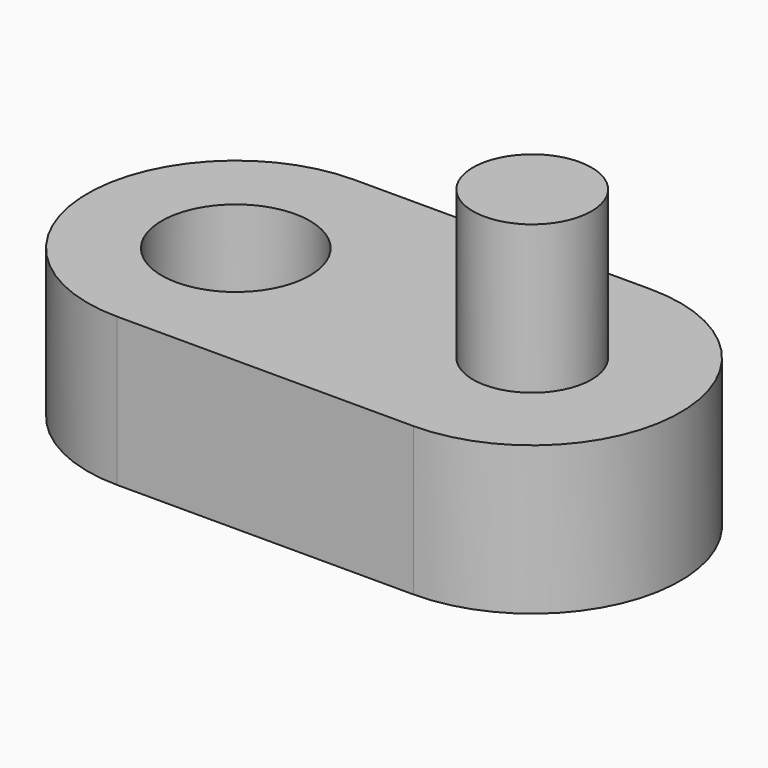
from build123d import *

# Parameters (mm, degrees)
CYLINDER_R     = 2
CYLINDER_DEPTH = 10
SKETCH_R       = 2.5
EXTRUDE_DEPTH  = 5


with BuildPart() as pin:
    # Cylinder → Cylinder (new body)
    with BuildSketch(Plane(origin=(10, 0, 0), x_dir=(1, 0, 0), z_dir=(0, 0, 1))):
        Circle(CYLINDER_R)
    extrude(amount=CYLINDER_DEPTH)


with BuildPart() as fusion:
    # Sketch → Extrude (new body)
    with BuildSketch(Plane.XY):
        with BuildLine():
            ThreePointArc((0, 5), (-5, 0), (0, -5))
            Line((0, -5), (10, -5))
            ThreePointArc((10, -5), (15, 0), (10, 5))
            Line((0, 5), (10, 5))
        make_face()
        Circle(SKETCH_R, mode=Mode.SUBTRACT)
    extrude(amount=EXTRUDE_DEPTH)

    # Fusion: union Pin
    add(pin.part)


solid = fusion.part
